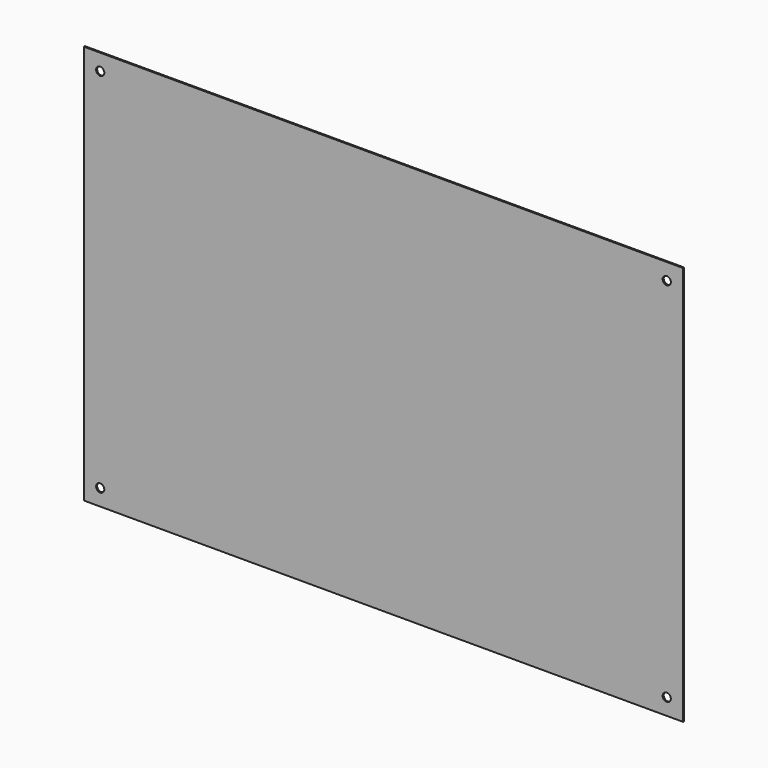
from build123d import *

# Parameters (mm, degrees)
SKETCH_W  = 1828.8
SKETCH_H  = 1219.2
SKETCH_R  = 12.5
PAD_DEPTH = 4


with BuildPart() as part:
    # Sketch → Pad (new body)
    with BuildSketch(Plane.XZ):
        with Locations((914.4, 609.6)):
            Rectangle(SKETCH_W, SKETCH_H)
        with Locations((50, 50)):
            Circle(SKETCH_R, mode=Mode.SUBTRACT)
        with Locations((1778.8, 50)):
            Circle(SKETCH_R, mode=Mode.SUBTRACT)
        with Locations((50, 1169.2)):
            Circle(SKETCH_R, mode=Mode.SUBTRACT)
        with Locations((1778.8, 1169.2)):
            Circle(SKETCH_R, mode=Mode.SUBTRACT)
    extrude(amount=PAD_DEPTH)


solid = part.part
